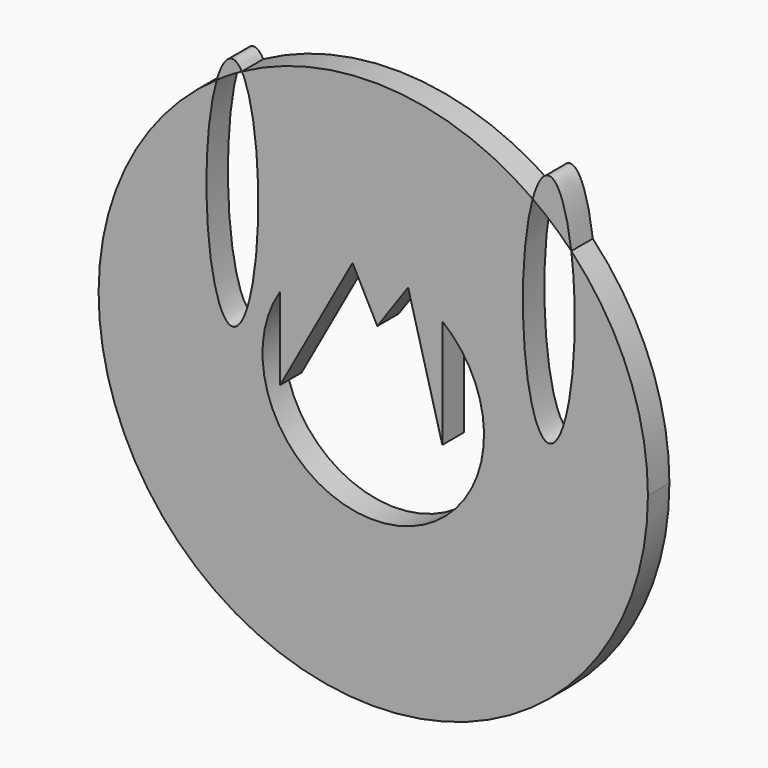
from build123d import *

# Parameters (mm, degrees)
F1_DEPTH = 12.7


with BuildPart() as f1:
    # F0 (on Front) → F1 (new body)
    with BuildSketch(Plane.XZ):
        with BuildLine():
            ThreePointArc((-142.3274428777, 222.6854333904), (-132.8231477493, 215.2214126087), (-124.0540535852, 206.9059920145))
            add(Edge.make_bspline(
                [(-124.0540535852, 206.9059920145), (-131.1716571608, 262.9214417948), (-142.3274428777, 222.6854333904)],
                knots=[2.0937308858, 2.0937308858, 2.0937308858, 3.8132780796, 3.8132780796, 3.8132780796], degree=2, weights=[1, 0.6526090294, 1]))
        make_face()
    extrude(amount=F1_DEPTH)


with BuildPart() as f1b:
    # F0 (on Front) → F1, piece 2 (new body)
    with BuildSketch(Plane.XZ):
        with BuildLine():
            add(Edge.make_bspline(
                [(-279.8026851061, 230.956193016), (-286.1662633816, 242.2488007047), (-291.6346317972, 223.6603022563)],
                knots=[2.7687367995, 2.7687367995, 2.7687367995, 3.7846277613, 3.7846277613, 3.7846277613], degree=2, weights=[1, 0.8737456345, 1]))
            ThreePointArc((-291.6346317972, 223.6603022563), (-285.8163741449, 227.4667158631), (-279.8026851061, 230.956193016))
        make_face()
    extrude(amount=F1_DEPTH)


with BuildPart() as f1c:
    # F0 (on Front) → F1, piece 3 (new body)
    with BuildSketch(Plane.XZ):
        with BuildLine():
            ThreePointArc((-291.6346317972, 223.6603022563), (-277.8955929936, 1.9433971257), (-87.8468968183, 116.9592233847))
            ThreePointArc((-87.8468968183, 116.9592233847), (-97.2383659621, 165.4395786538), (-124.0540535852, 206.9059920145))
            add(Edge.make_bspline(
                [(-134.688615799, 123.4045103192), (-113.4439371438, 123.4045103192), (-124.0540535852, 206.9059920145)],
                knots=[0, 0, 0, 2.0937308858, 2.0937308858, 2.0937308858], degree=2, weights=[1, 0.5002875867, 1]))
            add(Edge.make_bspline(
                [(-142.3274428777, 222.6854333904), (-169.8539483012, 123.4045103192), (-134.688615799, 123.4045103192)],
                knots=[3.8132780796, 3.8132780796, 3.8132780796, 6.2831853072, 6.2831853072, 6.2831853072], degree=2, weights=[1, 0.3295649199, 1]))
            ThreePointArc((-142.3274428777, 222.6854333904), (-209.8779671523, 246.5525468003), (-279.8026851061, 230.956193016))
            add(Edge.make_bspline(
                [(-284.2741906643, 123.4045103192), (-274.0980093267, 123.4045103192), (-272.2118550643, 168.7715711681), (-270.3257008019, 214.138632017), (-279.8026851061, 230.956193016)],
                knots=[0, 0, 0, 1.3843683997, 1.3843683997, 2.7687367995, 2.7687367995, 2.7687367995], degree=2, weights=[1, 0.769853852, 1, 0.769853852, 1]))
            add(Edge.make_bspline(
                [(-291.6346317972, 223.6603022563), (-321.1279019301, 123.4045103192), (-284.2741906643, 123.4045103192)],
                knots=[3.7846277613, 3.7846277613, 3.7846277613, 6.2831853072, 6.2831853072, 6.2831853072], degree=2, weights=[1, 0.3160067137, 1]))
        make_face()
        with BuildLine():
            ThreePointArc((-185.0382212393, 157.9005503057), (-209.177316884, 65.2957104263), (-261.7043758333, 145.2910877038))
            Line((-261.7043758333, 145.2910877038), (-261.7043758333, 106.3765979417))
            Line((-261.7043758333, 106.3765979417), (-227.4589546121, 168.3944881935))
            Line((-227.4589546121, 168.3944881935), (-215.7607513139, 145.8487116579))
            Line((-215.7607513139, 145.8487116579), (-201.1907323994, 166.654349087))
            Line((-201.1907323994, 166.654349087), (-185.0382212393, 106.3765979417))
            Line((-185.0382212393, 106.3765979417), (-185.0382212393, 157.9005503057))
        make_face(mode=Mode.SUBTRACT)
    extrude(amount=F1_DEPTH)


solid = Compound([f1.part, f1b.part, f1c.part])
